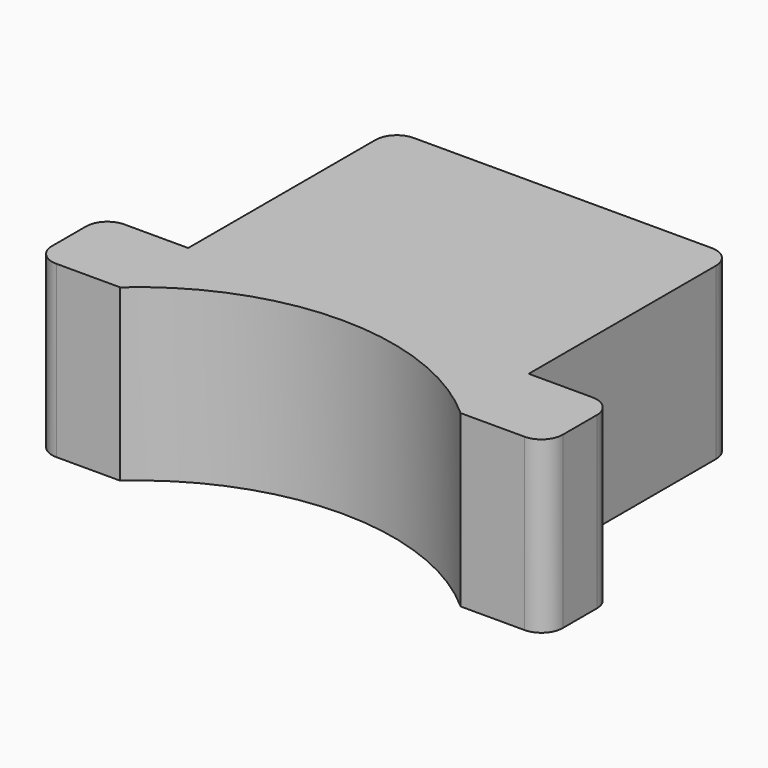
from build123d import *

# Parameters (mm, degrees)
F1_DEPTH = 40


with BuildPart() as f1:
    # F0 (on Top) → F1 (new body)
    with BuildSketch(Plane.XY):
        with BuildLine():
            Line((75, 80), (5, 80))
            ThreePointArc((5, 80), (1.464466, 78.535534), (0, 75))
            Line((0, 75), (0, 20))
            Line((0, 20), (-15, 20))
            ThreePointArc((-15, 20), (-15.914796, 19.915603), (-16.798709, 19.66526))
            ThreePointArc((-16.798709, 19.66526), (-19.122714, 17.828998), (-20, 15))
            Line((-20, 15), (-20, 5))
            ThreePointArc((-20, 5), (-18.535534, 1.464466), (-15, 0))
            Line((-15, 0), (0, 0))
            ThreePointArc((0, 0), (40, 15.263289), (80, 0))
            Line((80, 0), (95, 0))
            ThreePointArc((95, 0), (98.535534, 1.464466), (100, 5))
            Line((100, 5), (100, 15))
            ThreePointArc((100, 15), (98.535534, 18.535534), (95, 20))
            Line((95, 20), (80, 20))
            Line((80, 20), (80, 75))
            ThreePointArc((80, 75), (78.535534, 78.535534), (75, 80))
        make_face()
    extrude(amount=F1_DEPTH)


solid = f1.part
